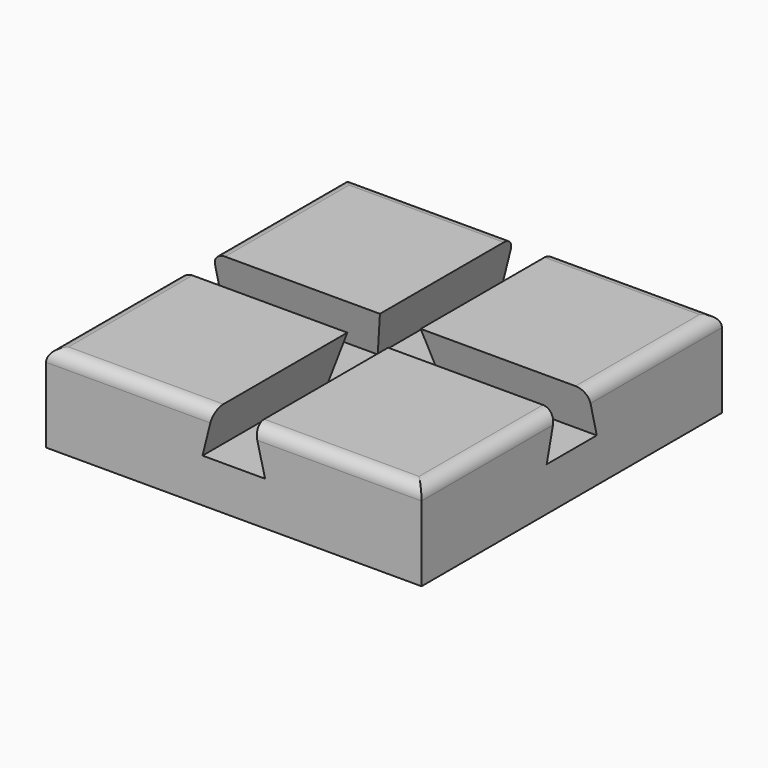
from build123d import *

# Parameters (mm, degrees)
F0_W     = 150
F0_H     = 150
F1_DEPTH = 17.5
F3_DEPTH = 150.001
F5_DEPTH = 150.001
F6_R     = 5


with BuildPart() as f1:
    # F0 (on Top) → F1 (new body, symmetric)
    with BuildSketch(Plane.XY):
        Rectangle(F0_W, F0_H)
    extrude(amount=F1_DEPTH, both=True)

    # F2 (on face) → F3 (cut, through all)
    with BuildSketch(Plane.XZ.offset(75)):
        Polygon((-8.1367599502, 17.5), (-12.5, 0), (12.5, 0), (8.1367599502, 17.5), align=None)
    extrude(amount=-F3_DEPTH, mode=Mode.SUBTRACT)

    # F4 (on face) → F5 (cut, through all)
    with BuildSketch(Plane.YZ.offset(75)):
        Polygon((-8.1367599502, 17.5), (-12.5, 0), (12.5, 0), (8.1367599502, 17.5), align=None)
    extrude(amount=-F5_DEPTH, mode=Mode.SUBTRACT)

    # F6
    f6_edges = [f1.edges().sort_by_distance(p)[0] for p in [
        (-75, -41.56838, 17.5),
        (-41.56838, -75, 17.5),
        (41.56838, -75, 17.5),
        (75, -41.56838, 17.5),
        (75, 41.56838, 17.5),
        (41.56838, 75, 17.5),
        (-41.56838, 75, 17.5),
        (-75, 41.56838, 17.5),
    ]]
    fillet(f6_edges, radius=F6_R)


solid = f1.part
